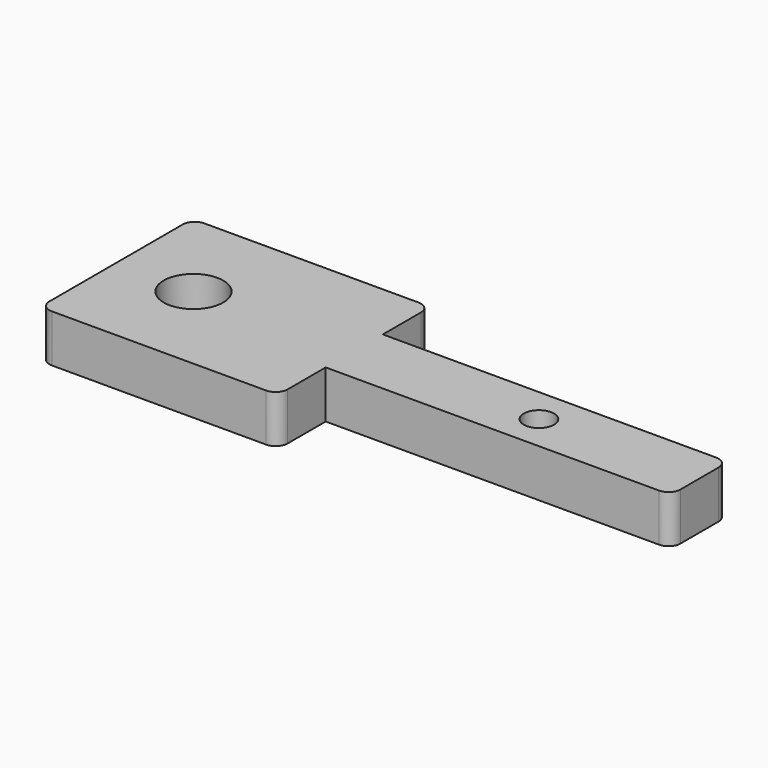
from build123d import *

# Parameters (mm, degrees)
F1_DEPTH = 6.35
F2_D     = 7.9375
F3_D     = 4.0386


with BuildPart() as f1:
    # F0 (on Top) → F1 (new body)
    with BuildSketch(Plane.XY):
        with BuildLine():
            Line((30.1625, 0), (1.5875, 0))
            ThreePointArc((1.5875, 0), (0.4649679849, -0.4649679849), (0, -1.5875))
            Line((0, -1.5875), (0, -23.8125))
            ThreePointArc((0, -23.8125), (0.4649679849, -24.9350320151), (1.5875, -25.4))
            Line((1.5875, -25.4), (30.1625, -25.4))
            ThreePointArc((30.1625, -25.4), (31.2850320151, -24.9350320151), (31.75, -23.8125))
            Line((31.75, -23.8125), (31.75, -17.4625))
            Line((31.75, -17.4625), (76.1873, -17.4625))
            ThreePointArc((76.1873, -17.4625), (77.3098320151, -16.9975320151), (77.7748, -15.875))
            Line((77.7748, -15.875), (77.7748, -9.525))
            ThreePointArc((77.7748, -9.525), (77.3098320151, -8.4024679849), (76.1873, -7.9375))
            Line((76.1873, -7.9375), (31.75, -7.9375))
            Line((31.75, -7.9375), (31.75, -1.5875))
            ThreePointArc((31.75, -1.5875), (31.2850320151, -0.4649679849), (30.1625, 0))
        make_face()
    extrude(amount=F1_DEPTH)

    # F2 (through all)
    with Locations(Plane(origin=(0, 0, 0), x_dir=(1, 0, 0), z_dir=(0, 0, -1))):
        with Locations((10.3124, 12.7)):
            Hole(F2_D / 2)

    # F3 (through all)
    with Locations(Plane(origin=(0, 0, 0), x_dir=(1, 0, 0), z_dir=(0, 0, -1))):
        with Locations((56.3626, 12.7)):
            Hole(F3_D / 2)


solid = f1.part
